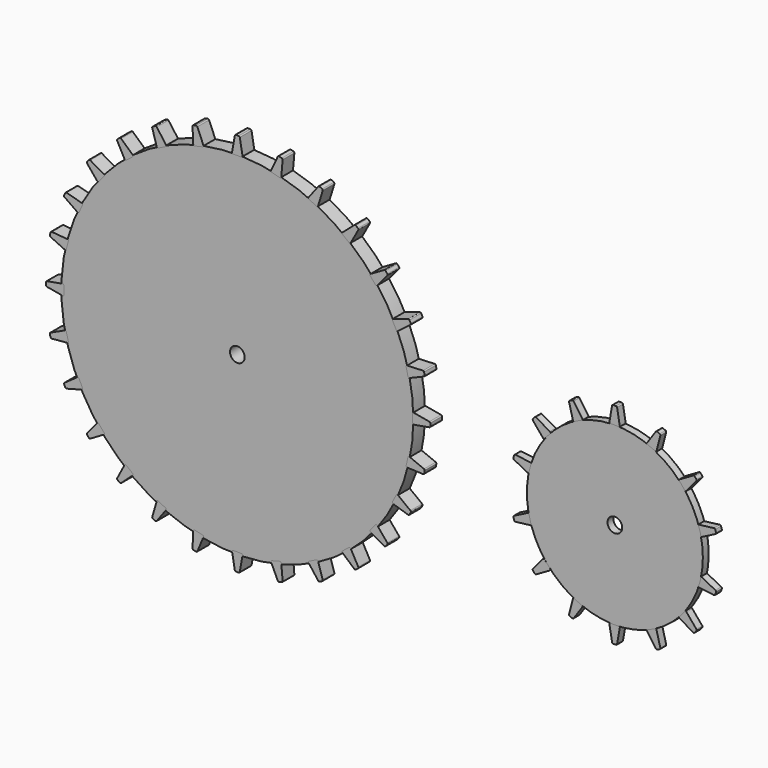
from build123d import *

# Parameters (mm, degrees)
F0_R     = 152.4
F0_R_2   = 6.35
F3_DEPTH = 12.7
F4_DEPTH = 6.35
F1_R     = 76.2
F1_R_2   = 6.35


with BuildPart() as f3:
    # F0 (on Front) → F3 (new body)
    with BuildSketch(Plane.XZ):
        with Locations((-44.3814694881, 27.8486218303)):
            Circle(F0_R)
        with Locations((-44.3814694881, 27.8486218303)):
            Circle(F0_R_2, mode=Mode.SUBTRACT)
    extrude(amount=F3_DEPTH)


with BuildPart() as f3b:
    # F2 (on Front) → F3, piece 2 (new body)
    with BuildSketch(Plane.XZ):
        with BuildLine():
            Line((-112.8320608893, 162.9912112732), (-106.5005491893, 166.2036504909))
            ThreePointArc((-106.5005491893, 166.2036504909), (-105.9849183826, 166.8583712393), (-106.1514750148, 167.6749453484))
            Line((-106.1514750148, 167.6749453484), (-114.2008591384, 178.5912808781))
            ThreePointArc((-114.2008591384, 178.5912808781), (-114.765281135, 178.966225593), (-115.4386632861, 178.8906464423))
            Line((-115.4386632861, 178.8906464423), (-117.5761172237, 177.8294205093))
            ThreePointArc((-117.5761172237, 177.8294205093), (-118.0388021682, 177.3434860445), (-118.0808867457, 176.6738304985))
            Line((-118.0808867457, 176.6738304985), (-114.2305508256, 163.5948568583))
            ThreePointArc((-114.2305508256, 163.5948568583), (-113.6728474706, 162.965118934), (-112.8320608893, 162.9912112732))
        make_face()
    extrude(amount=F3_DEPTH)


with BuildPart() as f3c:
    # F2 (on Front) → F3, piece 3 (new body)
    with BuildSketch(Plane.XZ):
        with BuildLine():
            Line((-81.3756216523, 174.8090971444), (-74.4595963758, 176.4142141213))
            ThreePointArc((-74.4595963758, 176.4142141213), (-73.8023569287, 176.9266306476), (-73.7688058949, 177.7593423117))
            Line((-73.7688058949, 177.7593423117), (-78.9741128302, 190.2838680862))
            ThreePointArc((-78.9741128302, 190.2838680862), (-79.4324941928, 190.782909423), (-80.1044122765, 190.8705554055))
            Line((-80.1044122765, 190.8705554055), (-82.433629461, 190.3512702008))
            ThreePointArc((-82.433629461, 190.3512702008), (-82.9990958021, 189.9900812212), (-83.2001003497, 189.3499196527))
            Line((-83.2001003497, 189.3499196527), (-82.5891792774, 175.7296621799))
            ThreePointArc((-82.5891792774, 175.7296621799), (-82.1982527188, 174.98482709), (-81.3756216523, 174.8090971444))
        make_face()
    extrude(amount=F3_DEPTH)


with BuildPart() as f3d:
    # F2 (on Front) → F3, piece 4 (new body)
    with BuildSketch(Plane.XZ):
        with BuildLine():
            Line((-47.9775257409, 179.4982850552), (-40.8779484712, 179.5599999316))
            ThreePointArc((-40.8779484712, 179.5599999316), (-40.1249552726, 179.9171212417), (-39.9110086276, 180.7225783917))
            Line((-39.9110086276, 180.7225783917), (-42.2662244491, 194.0796710619))
            ThreePointArc((-42.2662244491, 194.0796710619), (-42.6050296031, 194.6664988025), (-43.2417750093, 194.8982551771))
            Line((-43.2417750093, 194.8982551771), (-45.6281760267, 194.8982551771))
            ThreePointArc((-45.6281760267, 194.8982551771), (-46.2586878314, 194.6687676479), (-46.5941761553, 194.0876848255))
            Line((-46.5941761553, 194.0876848255), (-48.9616870175, 180.6608635152))
            ThreePointArc((-48.9616870175, 180.6608635152), (-48.7422054583, 179.8488101115), (-47.9775257409, 179.4982850552))
        make_face()
    extrude(amount=F3_DEPTH)


with BuildPart() as f3e:
    # F2 (on Front) → F3, piece 5 (new body)
    with BuildSketch(Plane.XZ):
        with BuildLine():
            Line((-14.4639070799, 176.4291878547), (-7.590269054, 174.6512940382))
            ThreePointArc((-7.590269054, 174.6512940382), (-6.7705036799, 174.8013577541), (-6.3553794396, 175.5239961509))
            Line((-6.3553794396, 175.5239961509), (-5.1732732579, 189.0355316352))
            ThreePointArc((-5.1732732579, 189.0355316352), (-5.3486517108, 189.6900529318), (-5.9037175798, 190.0787142375))
            Line((-5.9037175798, 190.0787142375), (-8.2088039544, 190.69636027))
            ThreePointArc((-8.2088039544, 190.69636027), (-8.8772273335, 190.6378808019), (-9.3516794712, 190.1634286642))
            Line((-9.3516794712, 190.1634286642), (-15.1136364273, 177.8068720963))
            ThreePointArc((-15.1136364273, 177.8068720963), (-15.1118084075, 176.9656827337), (-14.4639070799, 176.4291878547))
        make_face()
    extrude(amount=F3_DEPTH)


with BuildPart() as f3f:
    # F2 (on Front) → F3, piece 6 (new body)
    with BuildSketch(Plane.XZ):
        with BuildLine():
            Line((25.672965375, 178.7416891525), (17.4175417687, 167.8912228371))
            ThreePointArc((17.4175417687, 167.8912228371), (17.2406287081, 167.0688453967), (17.7597704862, 166.406958171))
            Line((17.7597704862, 166.406958171), (24.0988271922, 163.2094331575))
            ThreePointArc((24.0988271922, 163.2094331575), (24.9317603275, 163.1819235312), (25.4909241, 163.799880053))
            Line((25.4909241, 163.799880053), (29.5163923643, 176.7518903765))
            ThreePointArc((29.5163923643, 176.7518903765), (29.4840611863, 177.4287289277), (29.0242306325, 177.9264352581))
            Line((29.0242306325, 177.9264352581), (26.9029687493, 179.019668005))
            ThreePointArc((26.9029687493, 179.019668005), (26.2373790481, 179.1045208869), (25.672965375, 178.7416891525))
        make_face()
    extrude(amount=F3_DEPTH)


with BuildPart() as f3g:
    # F2 (on Front) → F3, piece 7 (new body)
    with BuildSketch(Plane.XZ):
        with BuildLine():
            Line((56.9575846966, 159.5799528966), (46.6904871358, 150.6093706492))
            ThreePointArc((46.6904871358, 150.6093706492), (46.3519543314, 149.839306739), (46.7275277627, 149.0866132535))
            Line((46.7275277627, 149.0866132535), (52.2948961553, 144.6806836903))
            ThreePointArc((52.2948961553, 144.6806836903), (53.1053177704, 144.4863870276), (53.7772357227, 144.9793988456))
            Line((53.7772357227, 144.9793988456), (60.3228612838, 156.8585297978))
            ThreePointArc((60.3228612838, 156.8585297978), (60.4271757653, 157.5280626338), (60.0767178829, 158.1080065984))
            Line((60.0767178829, 158.1080065984), (58.2183567738, 159.6051384578))
            ThreePointArc((58.2183567738, 159.6051384578), (57.5833873379, 159.8219874313), (56.9575846966, 159.5799528966))
        make_face()
    extrude(amount=F3_DEPTH)


with BuildPart() as f3h:
    # F2 (on Front) → F3, piece 8 (new body)
    with BuildSketch(Plane.XZ):
        with BuildLine():
            Line((82.7261539615, 133.642102507), (70.91880546, 126.8251266712))
            ThreePointArc((70.91880546, 126.8251266712), (70.4378164893, 126.1350161761), (70.6608253655, 125.3239243647))
            Line((70.6608253655, 125.3239243647), (75.2716220066, 119.9250022068))
            ThreePointArc((75.2716220066, 119.9250022068), (76.0292075, 119.5777291045), (76.7837457265, 119.9315743421))
            Line((76.7837457265, 119.9315743421), (85.5019687945, 130.3215480044))
            ThreePointArc((85.5019687945, 130.3215480044), (85.7337251691, 130.9582934106), (85.5019687945, 131.5950388167))
            Line((85.5019687945, 131.5950388167), (83.9680197887, 133.4231280552))
            ThreePointArc((83.9680197887, 133.4231280552), (83.3869369664, 133.7586163791), (82.7261539615, 133.642102507))
        make_face()
    extrude(amount=F3_DEPTH)


with BuildPart() as f3i:
    # F2 (on Front) → F3, piece 9 (new body)
    with BuildSketch(Plane.XZ):
        with BuildLine():
            Line((103.4897364842, 103.0757843449), (90.4868056694, 98.9759760071))
            ThreePointArc((90.4868056694, 98.9759760071), (89.8678508087, 98.4063289534), (89.9100210856, 97.5661953014))
            Line((89.9100210856, 97.5661953014), (93.2429828084, 91.2972901109))
            ThreePointArc((93.2429828084, 91.2972901109), (93.9074468445, 90.7942772561), (94.7206856288, 90.9764229863))
            Line((94.7206856288, 90.9764229863), (105.4810538876, 99.2331439518))
            ThreePointArc((105.4810538876, 99.2331439518), (105.8451336406, 99.8046346891), (105.7566877473, 100.476447947))
            Line((105.7566877473, 100.476447947), (104.6547703869, 102.5932115018))
            ThreePointArc((104.6547703869, 102.5932115018), (104.1600745109, 103.0465167546), (103.4897364842, 103.0757843449))
        make_face()
    extrude(amount=F3_DEPTH)


with BuildPart() as f3j:
    # F2 (on Front) → F3, piece 10 (new body)
    with BuildSketch(Plane.XZ):
        with BuildLine():
            Line((116.3311063383, 67.8834019728), (102.7087786825, 67.3205277252))
            ThreePointArc((102.7087786825, 67.3205277252), (101.9625693027, 66.9322308712), (101.7839387662, 66.1102247782))
            Line((101.7839387662, 66.1102247782), (103.3646507145, 59.1885807632))
            ThreePointArc((103.3646507145, 59.1885807632), (103.8747457583, 58.529537947), (104.7073338968, 58.4930498804))
            Line((104.7073338968, 58.4930498804), (117.250142546, 63.6541464071))
            ThreePointArc((117.250142546, 63.6541464071), (117.7507976366, 64.110764639), (117.8408131448, 64.7823693872))
            Line((117.8408131448, 64.7823693872), (117.3297470679, 67.1134037672))
            ThreePointArc((117.3297470679, 67.1134037672), (116.9705549167, 67.6801406202), (116.3311063383, 67.8834019728))
        make_face()
    extrude(amount=F3_DEPTH)


with BuildPart() as f3k:
    # F2 (on Front) → F3, piece 11 (new body)
    with BuildSketch(Plane.XZ):
        with BuildLine():
            ThreePointArc((-43.2417750093, -138.0022551771), (-42.6050296031, -137.7704988025), (-42.2662244491, -137.1836710619))
            Line((-42.2662244491, -137.1836710619), (-39.9110086276, -123.8265783917))
            ThreePointArc((-39.9110086276, -123.8265783917), (-40.1249552726, -123.0211212417), (-40.8779484712, -122.6639999316))
            Line((-40.8779484712, -122.6639999316), (-47.9775257409, -122.6022850552))
            ThreePointArc((-47.9775257409, -122.6022850552), (-48.7422054583, -122.9528101115), (-48.9616870175, -123.7648635152))
            Line((-48.9616870175, -123.7648635152), (-46.5941761553, -137.1916848255))
            ThreePointArc((-46.5941761553, -137.1916848255), (-46.2586878314, -137.7727676479), (-45.6281760267, -138.0022551771))
            Line((-45.6281760267, -138.0022551771), (-43.2417750093, -138.0022551771))
        make_face()
    extrude(amount=F3_DEPTH)


with BuildPart() as f3l:
    # F2 (on Front) → F3, piece 12 (new body)
    with BuildSketch(Plane.XZ):
        with BuildLine():
            ThreePointArc((-9.3516794712, -133.2674286642), (-8.8772273335, -133.7418808019), (-8.2088039544, -133.80036027))
            Line((-8.2088039544, -133.80036027), (-5.9037175798, -133.1827142375))
            ThreePointArc((-5.9037175798, -133.1827142375), (-5.3486517108, -132.7940529318), (-5.1732732579, -132.1395316352))
            Line((-5.1732732579, -132.1395316352), (-6.3553794396, -118.6279961509))
            ThreePointArc((-6.3553794396, -118.6279961509), (-6.7705036799, -117.9053577541), (-7.590269054, -117.7552940382))
            Line((-7.590269054, -117.7552940382), (-14.4639070799, -119.5331878547))
            ThreePointArc((-14.4639070799, -119.5331878547), (-15.1118084075, -120.0696827337), (-15.1136364273, -120.9108720963))
            Line((-15.1136364273, -120.9108720963), (-9.3516794712, -133.2674286642))
        make_face()
    extrude(amount=F3_DEPTH)


with BuildPart() as f3m:
    # F2 (on Front) → F3, piece 13 (new body)
    with BuildSketch(Plane.XZ):
        with BuildLine():
            ThreePointArc((25.672965375, -121.8456891525), (26.2373790481, -122.2085208869), (26.9029687493, -122.123668005))
            Line((26.9029687493, -122.123668005), (29.0242306325, -121.0304352581))
            ThreePointArc((29.0242306325, -121.0304352581), (29.4840611863, -120.5327289277), (29.5163923643, -119.8558903765))
            Line((29.5163923643, -119.8558903765), (25.4909241, -106.903880053))
            ThreePointArc((25.4909241, -106.903880053), (24.9317603275, -106.2859235312), (24.0988271922, -106.3134331575))
            Line((24.0988271922, -106.3134331575), (17.7597704862, -109.510958171))
            ThreePointArc((17.7597704862, -109.510958171), (17.2406287081, -110.1728453967), (17.4175417687, -110.9952228371))
            Line((17.4175417687, -110.9952228371), (25.672965375, -121.8456891525))
        make_face()
    extrude(amount=F3_DEPTH)


with BuildPart() as f3n:
    # F2 (on Front) → F3, piece 14 (new body)
    with BuildSketch(Plane.XZ):
        with BuildLine():
            ThreePointArc((53.7772357227, -88.0833988456), (53.1053177704, -87.5903870276), (52.2948961553, -87.7846836903))
            Line((52.2948961553, -87.7846836903), (46.7275277627, -92.1906132535))
            ThreePointArc((46.7275277627, -92.1906132535), (46.3519543314, -92.943306739), (46.6904871358, -93.7133706492))
            Line((46.6904871358, -93.7133706492), (56.9575846966, -102.6839528966))
            ThreePointArc((56.9575846966, -102.6839528966), (57.5833873379, -102.9259874313), (58.2183567738, -102.7091384578))
            Line((58.2183567738, -102.7091384578), (60.0767178829, -101.2120065984))
            ThreePointArc((60.0767178829, -101.2120065984), (60.4271757653, -100.6320626338), (60.3228612838, -99.9625297978))
            Line((60.3228612838, -99.9625297978), (53.7772357227, -88.0833988456))
        make_face()
    extrude(amount=F3_DEPTH)


with BuildPart() as f3o:
    # F2 (on Front) → F3, piece 15 (new body)
    with BuildSketch(Plane.XZ):
        with BuildLine():
            ThreePointArc((70.6608253655, -68.4279243647), (70.4378164893, -69.2390161761), (70.91880546, -69.9291266712))
            Line((70.91880546, -69.9291266712), (82.7261539615, -76.746102507))
            ThreePointArc((82.7261539615, -76.746102507), (83.3869369664, -76.8626163791), (83.9680197887, -76.5271280552))
            Line((83.9680197887, -76.5271280552), (85.5019687945, -74.6990388167))
            ThreePointArc((85.5019687945, -74.6990388167), (85.7337251691, -74.0622934106), (85.5019687945, -73.4255480044))
            Line((85.5019687945, -73.4255480044), (76.7837457265, -63.0355743421))
            ThreePointArc((76.7837457265, -63.0355743421), (76.0292075, -62.6817291045), (75.2716220066, -63.0290022068))
            Line((75.2716220066, -63.0290022068), (70.6608253655, -68.4279243647))
        make_face()
    extrude(amount=F3_DEPTH)


with BuildPart() as f3p:
    # F2 (on Front) → F3, piece 16 (new body)
    with BuildSketch(Plane.XZ):
        with BuildLine():
            ThreePointArc((103.4897364842, -46.1797843449), (104.1600745109, -46.1505167546), (104.6547703869, -45.6972115018))
            Line((104.6547703869, -45.6972115018), (105.7566877473, -43.580447947))
            ThreePointArc((105.7566877473, -43.580447947), (105.8451336406, -42.9086346891), (105.4810538876, -42.3371439518))
            Line((105.4810538876, -42.3371439518), (94.7206856288, -34.0804229863))
            ThreePointArc((94.7206856288, -34.0804229863), (93.9074468445, -33.8982772561), (93.2429828084, -34.4012901109))
            Line((93.2429828084, -34.4012901109), (89.9100210856, -40.6701953014))
            ThreePointArc((89.9100210856, -40.6701953014), (89.8678508087, -41.5103289534), (90.4868056694, -42.0799760071))
            Line((90.4868056694, -42.0799760071), (103.4897364842, -46.1797843449))
        make_face()
    extrude(amount=F3_DEPTH)


with BuildPart() as f3q:
    # F2 (on Front) → F3, piece 17 (new body)
    with BuildSketch(Plane.XZ):
        with BuildLine():
            ThreePointArc((104.7073338968, -1.5970498804), (103.8747457583, -1.633537947), (103.3646507145, -2.2925807632))
            Line((103.3646507145, -2.2925807632), (101.7839387662, -9.2142247782))
            ThreePointArc((101.7839387662, -9.2142247782), (101.9625693027, -10.0362308712), (102.7087786825, -10.4245277252))
            Line((102.7087786825, -10.4245277252), (116.3311063383, -10.9874019728))
            ThreePointArc((116.3311063383, -10.9874019728), (116.9705549167, -10.7841406202), (117.3297470679, -10.2174037672))
            Line((117.3297470679, -10.2174037672), (117.8408131448, -7.8863693872))
            ThreePointArc((117.8408131448, -7.8863693872), (117.7507976366, -7.214764639), (117.250142546, -6.7581464071))
            Line((117.250142546, -6.7581464071), (104.7073338968, -1.5970498804))
        make_face()
    extrude(amount=F3_DEPTH)


with BuildPart() as f3r:
    # F2 (on Front) → F3, piece 18 (new body)
    with BuildSketch(Plane.XZ):
        with BuildLine():
            Line((121.9091729821, 30.8040627198), (108.4823516719, 33.1715735819))
            ThreePointArc((108.4823516719, 33.1715735819), (107.6702982681, 32.9520920228), (107.3197732118, 32.1874123053))
            Line((107.3197732118, 32.1874123053), (107.3814880883, 25.0878350357))
            ThreePointArc((107.3814880883, 25.0878350357), (107.7386093984, 24.334841837), (108.5440665483, 24.120895192))
            Line((108.5440665483, 24.120895192), (121.9011592186, 26.4761110136))
            ThreePointArc((121.9011592186, 26.4761110136), (122.4879869591, 26.8149161676), (122.7197433338, 27.4516615737))
            Line((122.7197433338, 27.4516615737), (122.7197433338, 29.8380625912))
            ThreePointArc((122.7197433338, 29.8380625912), (122.4902558045, 30.4685743959), (121.9091729821, 30.8040627198))
        make_face()
    extrude(amount=F3_DEPTH)


with BuildPart() as f3s:
    # F2 (on Front) → F3, piece 19 (new body)
    with BuildSketch(Plane.XZ):
        with BuildLine():
            ThreePointArc((-80.1044122765, -133.9745554055), (-79.4324941928, -133.886909423), (-78.9741128302, -133.3878680862))
            Line((-78.9741128302, -133.3878680862), (-73.7688058949, -120.8633423117))
            ThreePointArc((-73.7688058949, -120.8633423117), (-73.8023569287, -120.0306306476), (-74.4595963758, -119.5182141213))
            Line((-74.4595963758, -119.5182141213), (-81.3756216523, -117.9130971444))
            ThreePointArc((-81.3756216523, -117.9130971444), (-82.1982527188, -118.08882709), (-82.5891792774, -118.8336621799))
            Line((-82.5891792774, -118.8336621799), (-83.2001003497, -132.4539196527))
            ThreePointArc((-83.2001003497, -132.4539196527), (-82.9990958021, -133.0940812212), (-82.433629461, -133.4552702008))
            Line((-82.433629461, -133.4552702008), (-80.1044122765, -133.9745554055))
        make_face()
    extrude(amount=F3_DEPTH)


with BuildPart() as f3t:
    # F2 (on Front) → F3, piece 20 (new body)
    with BuildSketch(Plane.XZ):
        with BuildLine():
            ThreePointArc((-115.4386632861, -121.9946464423), (-114.765281135, -122.070225593), (-114.2008591384, -121.6952808781))
            Line((-114.2008591384, -121.6952808781), (-106.1514750148, -110.7789453484))
            ThreePointArc((-106.1514750148, -110.7789453484), (-105.9849183826, -109.9623712393), (-106.5005491893, -109.3076504909))
            Line((-106.5005491893, -109.3076504909), (-112.8320608893, -106.0952112732))
            ThreePointArc((-112.8320608893, -106.0952112732), (-113.6728474706, -106.069118934), (-114.2305508256, -106.6988568583))
            Line((-114.2305508256, -106.6988568583), (-118.0808867457, -119.7778304985))
            ThreePointArc((-118.0808867457, -119.7778304985), (-118.0388021682, -120.4474860445), (-117.5761172237, -120.9334205093))
            Line((-117.5761172237, -120.9334205093), (-115.4386632861, -121.9946464423))
        make_face()
    extrude(amount=F3_DEPTH)


with BuildPart() as f3u:
    # F2 (on Front) → F3, piece 21 (new body)
    with BuildSketch(Plane.XZ):
        with BuildLine():
            ThreePointArc((-146.2946517608, -102.9196763375), (-145.6492381548, -103.1260667605), (-145.0221574418, -102.8693071281))
            Line((-145.0221574418, -102.8693071281), (-134.9851376745, -93.7469609191))
            ThreePointArc((-134.9851376745, -93.7469609191), (-134.6614128728, -92.9790177961), (-135.0383783188, -92.2357604787))
            Line((-135.0383783188, -92.2357604787), (-140.6154424697, -87.8421103344))
            ThreePointArc((-140.6154424697, -87.8421103344), (-141.4347200749, -87.6513563278), (-142.1052664518, -88.1592642345))
            Line((-142.1052664518, -88.1592642345), (-148.4499028927, -100.2269991758))
            ThreePointArc((-148.4499028927, -100.2269991758), (-148.5401902523, -100.8918734907), (-148.1819814108, -101.4592323611))
            Line((-148.1819814108, -101.4592323611), (-146.2946517608, -102.9196763375))
        make_face()
    extrude(amount=F3_DEPTH)


with BuildPart() as f3v:
    # F2 (on Front) → F3, piece 22 (new body)
    with BuildSketch(Plane.XZ):
        with BuildLine():
            ThreePointArc((-172.9905269569, -77.4704752926), (-172.4007590666, -77.8041361459), (-171.7344975891, -77.680639696))
            Line((-171.7344975891, -77.680639696), (-160.0482160268, -70.7966154796))
            ThreePointArc((-160.0482160268, -70.7966154796), (-159.5747009606, -70.1108182286), (-159.7921879728, -69.3063098154))
            Line((-159.7921879728, -69.3063098154), (-164.3561623673, -63.8677489893))
            ThreePointArc((-164.3561623673, -63.8677489893), (-165.1193297167, -63.5139432765), (-165.879355466, -63.874448125))
            Line((-165.879355466, -63.874448125), (-174.5514291832, -74.3948937251))
            ThreePointArc((-174.5514291832, -74.3948937251), (-174.7753946083, -75.0273881126), (-174.5404025222, -75.6558691237))
            Line((-174.5404025222, -75.6558691237), (-172.9905269569, -77.4704752926))
        make_face()
    extrude(amount=F3_DEPTH)


with BuildPart() as f3w:
    # F2 (on Front) → F3, piece 23 (new body)
    with BuildSketch(Plane.XZ):
        with BuildLine():
            ThreePointArc((-181.4433188389, -34.8929413423), (-182.08417004, -34.3480444497), (-182.9128972783, -34.4923152015))
            Line((-182.9128972783, -34.4923152015), (-194.0811766617, -42.3124286146))
            ThreePointArc((-194.0811766617, -42.3124286146), (-194.4660330563, -42.8620605074), (-194.4075535882, -43.5304838865))
            Line((-194.4075535882, -43.5304838865), (-193.3990169384, -45.6932977116))
            ThreePointArc((-193.3990169384, -45.6932977116), (-192.9198740946, -46.1724405553), (-192.2448422984, -46.231498185))
            Line((-192.2448422984, -46.231498185), (-179.1438479827, -42.7210973381))
            ThreePointArc((-179.1438479827, -42.7210973381), (-178.5042736548, -42.1867949271), (-178.4988405072, -41.3534253402))
            Line((-178.4988405072, -41.3534253402), (-181.4433188389, -34.8929413423))
        make_face()
    extrude(amount=F3_DEPTH)


with BuildPart() as f3x:
    # F2 (on Front) → F3, piece 24 (new body)
    with BuildSketch(Plane.XZ):
        with BuildLine():
            ThreePointArc((-206.1347817237, -11.5283575191), (-205.746120418, -12.0834233881), (-205.0915991214, -12.258801841))
            Line((-205.0915991214, -12.258801841), (-191.5800636371, -11.0766956593))
            ThreePointArc((-191.5800636371, -11.0766956593), (-190.8574252404, -10.661571419), (-190.7073615245, -9.8418060449))
            Line((-190.7073615245, -9.8418060449), (-192.485255341, -2.968168019))
            ThreePointArc((-192.485255341, -2.968168019), (-193.0217502199, -2.3202666914), (-193.8629395825, -2.3184386716))
            Line((-193.8629395825, -2.3184386716), (-206.2194961504, -8.0803956277))
            ThreePointArc((-206.2194961504, -8.0803956277), (-206.6939482881, -8.5548477654), (-206.7524277562, -9.2232711445))
            Line((-206.7524277562, -9.2232711445), (-206.1347817237, -11.5283575191))
        make_face()
    extrude(amount=F3_DEPTH)


with BuildPart() as f3y:
    # F2 (on Front) → F3, piece 25 (new body)
    with BuildSketch(Plane.XZ):
        with BuildLine():
            Line((-209.2020677032, 25.8841770782), (-195.7752463929, 23.516666216))
            ThreePointArc((-195.7752463929, 23.516666216), (-194.9631929891, 23.7361477751), (-194.6126679328, 24.5008274926))
            Line((-194.6126679328, 24.5008274926), (-194.6743828093, 31.6004047623))
            ThreePointArc((-194.6743828093, 31.6004047623), (-195.0315041194, 32.3533979609), (-195.8369612694, 32.5673446059))
            Line((-195.8369612694, 32.5673446059), (-209.1940539396, 30.2121287843))
            ThreePointArc((-209.1940539396, 30.2121287843), (-209.7808816801, 29.8733236304), (-210.0126380548, 29.2365782242))
            Line((-210.0126380548, 29.2365782242), (-210.0126380548, 26.8501772067))
            ThreePointArc((-210.0126380548, 26.8501772067), (-209.7831505255, 26.2196654021), (-209.2020677032, 25.8841770782))
        make_face()
    extrude(amount=F3_DEPTH)


with BuildPart() as f3z:
    # F2 (on Front) → F3, piece 26 (new body)
    with BuildSketch(Plane.XZ):
        with BuildLine():
            Line((-206.2194961504, 64.9763956277), (-193.8629395825, 59.2144386716))
            ThreePointArc((-193.8629395825, 59.2144386716), (-193.0217502199, 59.2162666914), (-192.485255341, 59.864168019))
            Line((-192.485255341, 59.864168019), (-190.7073615245, 66.7378060449))
            ThreePointArc((-190.7073615245, 66.7378060449), (-190.8574252404, 67.557571419), (-191.5800636371, 67.9726956593))
            Line((-191.5800636371, 67.9726956593), (-205.0915991214, 69.154801841))
            ThreePointArc((-205.0915991214, 69.154801841), (-205.746120418, 68.9794233881), (-206.1347817237, 68.4243575191))
            Line((-206.1347817237, 68.4243575191), (-206.7524277562, 66.1192711445))
            ThreePointArc((-206.7524277562, 66.1192711445), (-206.6939482881, 65.4508477654), (-206.2194961504, 64.9763956277))
        make_face()
    extrude(amount=F3_DEPTH)


with BuildPart() as f3ba:
    # F2 (on Front) → F3, piece 27 (new body)
    with BuildSketch(Plane.XZ):
        with BuildLine():
            Line((-181.4433188389, 91.7889413423), (-178.4988405072, 98.2494253402))
            ThreePointArc((-178.4988405072, 98.2494253402), (-178.5042736548, 99.0827949271), (-179.1438479827, 99.6170973381))
            Line((-179.1438479827, 99.6170973381), (-192.2448422984, 103.127498185))
            ThreePointArc((-192.2448422984, 103.127498185), (-192.9198740946, 103.0684405553), (-193.3990169384, 102.5892977116))
            Line((-193.3990169384, 102.5892977116), (-194.4075535882, 100.4264838865))
            ThreePointArc((-194.4075535882, 100.4264838865), (-194.4660330563, 99.7580605074), (-194.0811766617, 99.2084286146))
            Line((-194.0811766617, 99.2084286146), (-182.9128972783, 91.3883152015))
            ThreePointArc((-182.9128972783, 91.3883152015), (-182.08417004, 91.2440444497), (-181.4433188389, 91.7889413423))
        make_face()
    extrude(amount=F3_DEPTH)


with BuildPart() as f3bb:
    # F2 (on Front) → F3, piece 28 (new body)
    with BuildSketch(Plane.XZ):
        with BuildLine():
            Line((-164.3561623673, 120.7637489893), (-159.7921879728, 126.2023098154))
            ThreePointArc((-159.7921879728, 126.2023098154), (-159.5747009606, 127.0068182286), (-160.0482160268, 127.6926154796))
            Line((-160.0482160268, 127.6926154796), (-171.7344975891, 134.576639696))
            ThreePointArc((-171.7344975891, 134.576639696), (-172.4007590666, 134.7001361459), (-172.9905269569, 134.3664752926))
            Line((-172.9905269569, 134.3664752926), (-174.5404025222, 132.5518691237))
            ThreePointArc((-174.5404025222, 132.5518691237), (-174.7753946083, 131.9233881126), (-174.5514291832, 131.2908937251))
            Line((-174.5514291832, 131.2908937251), (-165.879355466, 120.770448125))
            ThreePointArc((-165.879355466, 120.770448125), (-165.1193297167, 120.4099432765), (-164.3561623673, 120.7637489893))
        make_face()
    extrude(amount=F3_DEPTH)


with BuildPart() as f3bc:
    # F2 (on Front) → F3, piece 29 (new body)
    with BuildSketch(Plane.XZ):
        with BuildLine():
            Line((-140.6154424697, 144.7381103344), (-135.0383783188, 149.1317604787))
            ThreePointArc((-135.0383783188, 149.1317604787), (-134.6614128728, 149.8750177961), (-134.9851376745, 150.6429609191))
            Line((-134.9851376745, 150.6429609191), (-145.0221574418, 159.7653071281))
            ThreePointArc((-145.0221574418, 159.7653071281), (-145.6492381548, 160.0220667605), (-146.2946517608, 159.8156763375))
            Line((-146.2946517608, 159.8156763375), (-148.1819814108, 158.3552323611))
            ThreePointArc((-148.1819814108, 158.3552323611), (-148.5401902523, 157.7878734907), (-148.4499028927, 157.1229991758))
            Line((-148.4499028927, 157.1229991758), (-142.1052664518, 145.0552642345))
            ThreePointArc((-142.1052664518, 145.0552642345), (-141.4347200749, 144.5473563278), (-140.6154424697, 144.7381103344))
        make_face()
    extrude(amount=F3_DEPTH)


with BuildPart() as f4:
    # F2 (on Front) → F4 (new body)
    with BuildSketch(Plane.XZ):
        with BuildLine():
            ThreePointArc((238.3273106134, 82.0642498375), (237.8448805354, 81.588416937), (237.7811771476, 80.913807711))
            Line((237.7811771476, 80.913807711), (241.2013029293, 67.7889570145))
            ThreePointArc((241.2013029293, 67.7889570145), (241.7311896229, 67.1457195161), (242.5645020573, 67.1345492864))
            Line((242.5645020573, 67.1345492864), (249.0451037884, 70.034481585))
            ThreePointArc((249.0451037884, 70.034481585), (249.5943996146, 70.6715663367), (249.455837533, 71.5012671472))
            Line((249.455837533, 71.5012671472), (241.7127958212, 82.7231182971))
            ThreePointArc((241.7127958212, 82.7231182971), (241.1658264409, 83.1117494318), (240.4970163083, 83.0578730124))
            Line((240.4970163083, 83.0578730124), (238.3273106134, 82.0642498375))
        make_face()
    extrude(amount=F4_DEPTH)


with BuildPart() as f4b:
    # F2 (on Front) → F4, piece 2 (new body)
    with BuildSketch(Plane.XZ):
        with BuildLine():
            Line((275.0344607128, 90.2055965366), (272.6669498507, 76.7787752263))
            ThreePointArc((272.6669498507, 76.7787752263), (272.8864314098, 75.9667218225), (273.6511111273, 75.6161967662))
            Line((273.6511111273, 75.6161967662), (280.7506883969, 75.6779116427))
            ThreePointArc((280.7506883969, 75.6779116427), (281.5036815956, 76.0350329528), (281.7176282406, 76.8404901028))
            Line((281.7176282406, 76.8404901028), (279.362412419, 90.197582773))
            ThreePointArc((279.362412419, 90.197582773), (279.023607265, 90.7844105135), (278.3868618589, 91.0161668882))
            Line((278.3868618589, 91.0161668882), (276.0004608414, 91.0161668882))
            ThreePointArc((276.0004608414, 91.0161668882), (275.3699490367, 90.7866793589), (275.0344607128, 90.2055965366))
        make_face()
    extrude(amount=F4_DEPTH)


with BuildPart() as f4c:
    # F2 (on Front) → F4, piece 3 (new body)
    with BuildSketch(Plane.XZ):
        with BuildLine():
            Line((312.8931650247, 82.7231182971), (305.150123313, 71.5012671472))
            ThreePointArc((305.150123313, 71.5012671472), (305.0115612314, 70.6715663367), (305.5608570576, 70.034481585))
            Line((305.5608570576, 70.034481585), (312.0414587887, 67.1345492864))
            ThreePointArc((312.0414587887, 67.1345492864), (312.8747712231, 67.1457195161), (313.4046579166, 67.7889570145))
            Line((313.4046579166, 67.7889570145), (316.8247836983, 80.913807711))
            ThreePointArc((316.8247836983, 80.913807711), (316.7610803106, 81.588416937), (316.2786502325, 82.0642498375))
            Line((316.2786502325, 82.0642498375), (314.1089445376, 83.0578730124))
            ThreePointArc((314.1089445376, 83.0578730124), (313.4401344051, 83.1117494318), (312.8931650247, 82.7231182971))
        make_face()
    extrude(amount=F4_DEPTH)


with BuildPart() as f4d:
    # F2 (on Front) → F4, piece 4 (new body)
    with BuildSketch(Plane.XZ):
        with BuildLine():
            Line((345.3253738036, 59.8118981182), (333.5180253021, 52.9949222824))
            ThreePointArc((333.5180253021, 52.9949222824), (333.0370363314, 52.3048117873), (333.2600452076, 51.4937199759))
            Line((333.2600452076, 51.4937199759), (337.8708418488, 46.0947978179))
            ThreePointArc((337.8708418488, 46.0947978179), (338.6284273422, 45.7475247157), (339.3829655686, 46.1013699533))
            Line((339.3829655686, 46.1013699533), (348.1011886366, 56.4913436156))
            ThreePointArc((348.1011886366, 56.4913436156), (348.3329450113, 57.1280890218), (348.1011886366, 57.7648344279))
            Line((348.1011886366, 57.7648344279), (346.5672396308, 59.5929236664))
            ThreePointArc((346.5672396308, 59.5929236664), (345.9861568085, 59.9284119903), (345.3253738036, 59.8118981182))
        make_face()
    extrude(amount=F4_DEPTH)


with BuildPart() as f4e:
    # F2 (on Front) → F4, piece 5 (new body)
    with BuildSketch(Plane.XZ):
        with BuildLine():
            Line((363.2660319185, 25.5459119414), (349.7354682734, 23.8700582402))
            ThreePointArc((349.7354682734, 23.8700582402), (349.0235408226, 23.4219933006), (348.9127834907, 22.588125386))
            Line((348.9127834907, 22.588125386), (351.0546684265, 15.8190682098))
            ThreePointArc((351.0546684265, 15.8190682098), (351.6169891532, 15.2039830224), (352.4497705038, 15.2357573741))
            Line((352.4497705038, 15.2357573741), (364.5281124736, 21.4060589412))
            ThreePointArc((364.5281124736, 21.4060589412), (364.9897178723, 21.9021196082), (365.0244664724, 22.5788383565))
            Line((365.0244664724, 22.5788383565), (364.3243401693, 24.8602267442))
            ThreePointArc((364.3243401693, 24.8602267442), (363.9199705448, 25.3956656938), (363.2660319185, 25.5459119414))
        make_face()
    extrude(amount=F4_DEPTH)


with BuildPart() as f4f:
    # F2 (on Front) → F4, piece 6 (new body)
    with BuildSketch(Plane.XZ):
        with BuildLine():
            ThreePointArc((365.0244664724, -22.5788383565), (364.9897178723, -21.9021196082), (364.5281124736, -21.4060589412))
            Line((364.5281124736, -21.4060589412), (352.4497705038, -15.2357573741))
            ThreePointArc((352.4497705038, -15.2357573741), (351.6169891532, -15.2039830224), (351.0546684265, -15.8190682098))
            Line((351.0546684265, -15.8190682098), (348.9127834907, -22.588125386))
            ThreePointArc((348.9127834907, -22.588125386), (349.0235408226, -23.4219933006), (349.7354682734, -23.8700582402))
            Line((349.7354682734, -23.8700582402), (363.2660319185, -25.5459119414))
            ThreePointArc((363.2660319185, -25.5459119414), (363.9199705448, -25.3956656938), (364.3243401693, -24.8602267442))
            Line((364.3243401693, -24.8602267442), (365.0244664724, -22.5788383565))
        make_face()
    extrude(amount=F4_DEPTH)


with BuildPart() as f4g:
    # F2 (on Front) → F4, piece 7 (new body)
    with BuildSketch(Plane.XZ):
        with BuildLine():
            ThreePointArc((345.3253738036, -59.8118981182), (345.9861568085, -59.9284119903), (346.5672396308, -59.5929236664))
            Line((346.5672396308, -59.5929236664), (348.1011886366, -57.7648344279))
            ThreePointArc((348.1011886366, -57.7648344279), (348.3329450113, -57.1280890218), (348.1011886366, -56.4913436156))
            Line((348.1011886366, -56.4913436156), (339.3829655686, -46.1013699533))
            ThreePointArc((339.3829655686, -46.1013699533), (338.6284273422, -45.7475247157), (337.8708418488, -46.0947978179))
            Line((337.8708418488, -46.0947978179), (333.2600452076, -51.4937199759))
            ThreePointArc((333.2600452076, -51.4937199759), (333.0370363314, -52.3048117873), (333.5180253021, -52.9949222824))
            Line((333.5180253021, -52.9949222824), (345.3253738036, -59.8118981182))
        make_face()
    extrude(amount=F4_DEPTH)


with BuildPart() as f4h:
    # F2 (on Front) → F4, piece 8 (new body)
    with BuildSketch(Plane.XZ):
        with BuildLine():
            ThreePointArc((305.5608570576, -70.034481585), (305.0115612314, -70.6715663367), (305.150123313, -71.5012671472))
            Line((305.150123313, -71.5012671472), (312.8931650247, -82.7231182971))
            ThreePointArc((312.8931650247, -82.7231182971), (313.4401344051, -83.1117494318), (314.1089445376, -83.0578730124))
            Line((314.1089445376, -83.0578730124), (316.2786502325, -82.0642498375))
            ThreePointArc((316.2786502325, -82.0642498375), (316.7610803106, -81.588416937), (316.8247836983, -80.913807711))
            Line((316.8247836983, -80.913807711), (313.4046579166, -67.7889570145))
            ThreePointArc((313.4046579166, -67.7889570145), (312.8747712231, -67.1457195161), (312.0414587887, -67.1345492864))
            Line((312.0414587887, -67.1345492864), (305.5608570576, -70.034481585))
        make_face()
    extrude(amount=F4_DEPTH)


with BuildPart() as f4i:
    # F2 (on Front) → F4, piece 9 (new body)
    with BuildSketch(Plane.XZ):
        with BuildLine():
            ThreePointArc((273.6511111273, -75.6161967662), (272.8864314098, -75.9667218225), (272.6669498507, -76.7787752263))
            Line((272.6669498507, -76.7787752263), (275.0344607128, -90.2055965366))
            ThreePointArc((275.0344607128, -90.2055965366), (275.3699490367, -90.7866793589), (276.0004608414, -91.0161668882))
            Line((276.0004608414, -91.0161668882), (278.3868618589, -91.0161668882))
            ThreePointArc((278.3868618589, -91.0161668882), (279.023607265, -90.7844105135), (279.362412419, -90.197582773))
            Line((279.362412419, -90.197582773), (281.7176282406, -76.8404901028))
            ThreePointArc((281.7176282406, -76.8404901028), (281.5036815956, -76.0350329528), (280.7506883969, -75.6779116427))
            Line((280.7506883969, -75.6779116427), (273.6511111273, -75.6161967662))
        make_face()
    extrude(amount=F4_DEPTH)


with BuildPart() as f4j:
    # F2 (on Front) → F4, piece 10 (new body)
    with BuildSketch(Plane.XZ):
        with BuildLine():
            Line((249.0451037884, -70.034481585), (242.5645020573, -67.1345492864))
            ThreePointArc((242.5645020573, -67.1345492864), (241.7311896229, -67.1457195161), (241.2013029293, -67.7889570145))
            Line((241.2013029293, -67.7889570145), (237.7811771476, -80.913807711))
            ThreePointArc((237.7811771476, -80.913807711), (237.8448805354, -81.588416937), (238.3273106134, -82.0642498375))
            Line((238.3273106134, -82.0642498375), (240.4970163083, -83.0578730124))
            ThreePointArc((240.4970163083, -83.0578730124), (241.1658264409, -83.1117494318), (241.7127958212, -82.7231182971))
            Line((241.7127958212, -82.7231182971), (249.455837533, -71.5012671472))
            ThreePointArc((249.455837533, -71.5012671472), (249.5943996146, -70.6715663367), (249.0451037884, -70.034481585))
        make_face()
    extrude(amount=F4_DEPTH)


with BuildPart() as f4k:
    # F2 (on Front) → F4, piece 11 (new body)
    with BuildSketch(Plane.XZ):
        with BuildLine():
            Line((209.2805870423, -59.8118981182), (221.0879355438, -52.9949222824))
            ThreePointArc((221.0879355438, -52.9949222824), (221.5689245145, -52.3048117873), (221.3459156383, -51.4937199759))
            Line((221.3459156383, -51.4937199759), (216.7351189972, -46.0947978179))
            ThreePointArc((216.7351189972, -46.0947978179), (215.9775335038, -45.7475247157), (215.2229952773, -46.1013699533))
            Line((215.2229952773, -46.1013699533), (206.5047722093, -56.4913436156))
            ThreePointArc((206.5047722093, -56.4913436156), (206.2730158347, -57.1280890218), (206.5047722093, -57.7648344279))
            Line((206.5047722093, -57.7648344279), (208.0387212151, -59.5929236664))
            ThreePointArc((208.0387212151, -59.5929236664), (208.6198040375, -59.9284119903), (209.2805870423, -59.8118981182))
        make_face()
    extrude(amount=F4_DEPTH)


with BuildPart() as f4l:
    # F2 (on Front) → F4, piece 12 (new body)
    with BuildSketch(Plane.XZ):
        with BuildLine():
            Line((202.1561903421, -15.2357573741), (190.0778483723, -21.4060589412))
            ThreePointArc((190.0778483723, -21.4060589412), (189.6162429737, -21.9021196082), (189.5814943736, -22.5788383565))
            Line((189.5814943736, -22.5788383565), (190.2816206767, -24.8602267442))
            ThreePointArc((190.2816206767, -24.8602267442), (190.6859903011, -25.3956656938), (191.3399289275, -25.5459119414))
            Line((191.3399289275, -25.5459119414), (204.8704925725, -23.8700582402))
            ThreePointArc((204.8704925725, -23.8700582402), (205.5824200234, -23.4219933006), (205.6931773552, -22.588125386))
            Line((205.6931773552, -22.588125386), (203.5512924194, -15.8190682098))
            ThreePointArc((203.5512924194, -15.8190682098), (202.9889716927, -15.2039830224), (202.1561903421, -15.2357573741))
        make_face()
    extrude(amount=F4_DEPTH)


with BuildPart() as f4m:
    # F2 (on Front) → F4, piece 13 (new body)
    with BuildSketch(Plane.XZ):
        with BuildLine():
            ThreePointArc((191.3399289275, 25.5459119414), (190.6859903011, 25.3956656938), (190.2816206767, 24.8602267442))
            Line((190.2816206767, 24.8602267442), (189.5814943736, 22.5788383565))
            ThreePointArc((189.5814943736, 22.5788383565), (189.6162429737, 21.9021196082), (190.0778483723, 21.4060589412))
            Line((190.0778483723, 21.4060589412), (202.1561903421, 15.2357573741))
            ThreePointArc((202.1561903421, 15.2357573741), (202.9889716927, 15.2039830224), (203.5512924194, 15.8190682098))
            Line((203.5512924194, 15.8190682098), (205.6931773552, 22.588125386))
            ThreePointArc((205.6931773552, 22.588125386), (205.5824200234, 23.4219933006), (204.8704925725, 23.8700582402))
            Line((204.8704925725, 23.8700582402), (191.3399289275, 25.5459119414))
        make_face()
    extrude(amount=F4_DEPTH)


with BuildPart() as f4n:
    # F2 (on Front) → F4, piece 14 (new body)
    with BuildSketch(Plane.XZ):
        with BuildLine():
            ThreePointArc((221.3459156383, 51.4937199759), (221.5689245145, 52.3048117873), (221.0879355438, 52.9949222824))
            Line((221.0879355438, 52.9949222824), (209.2805870423, 59.8118981182))
            ThreePointArc((209.2805870423, 59.8118981182), (208.6198040375, 59.9284119903), (208.0387212151, 59.5929236664))
            Line((208.0387212151, 59.5929236664), (206.5047722093, 57.7648344279))
            ThreePointArc((206.5047722093, 57.7648344279), (206.2730158347, 57.1280890218), (206.5047722093, 56.4913436156))
            Line((206.5047722093, 56.4913436156), (215.2229952773, 46.1013699533))
            ThreePointArc((215.2229952773, 46.1013699533), (215.9775335038, 45.7475247157), (216.7351189972, 46.0947978179))
            Line((216.7351189972, 46.0947978179), (221.3459156383, 51.4937199759))
        make_face()
    extrude(amount=F4_DEPTH)


with BuildPart() as f4o:
    # F1 (on Front) → F4, piece 15 (new body)
    with BuildSketch(Plane.XZ):
        with Locations((277.4409961612, 0)):
            Circle(F1_R)
        with Locations((277.4409961612, 0)):
            Circle(F1_R_2, mode=Mode.SUBTRACT)
    extrude(amount=F4_DEPTH)


solid = Compound([f3.part, f3b.part, f3c.part, f3d.part, f3e.part, f3f.part, f3g.part, f3h.part, f3i.part, f3j.part, f3k.part, f3l.part, f3m.part, f3n.part, f3o.part, f3p.part, f3q.part, f3r.part, f3s.part, f3t.part, f3u.part, f3v.part, f3w.part, f3x.part, f3y.part, f3z.part, f3ba.part, f3bb.part, f3bc.part, f4.part, f4b.part, f4c.part, f4d.part, f4e.part, f4f.part, f4g.part, f4h.part, f4i.part, f4j.part, f4k.part, f4l.part, f4m.part, f4n.part, f4o.part])
